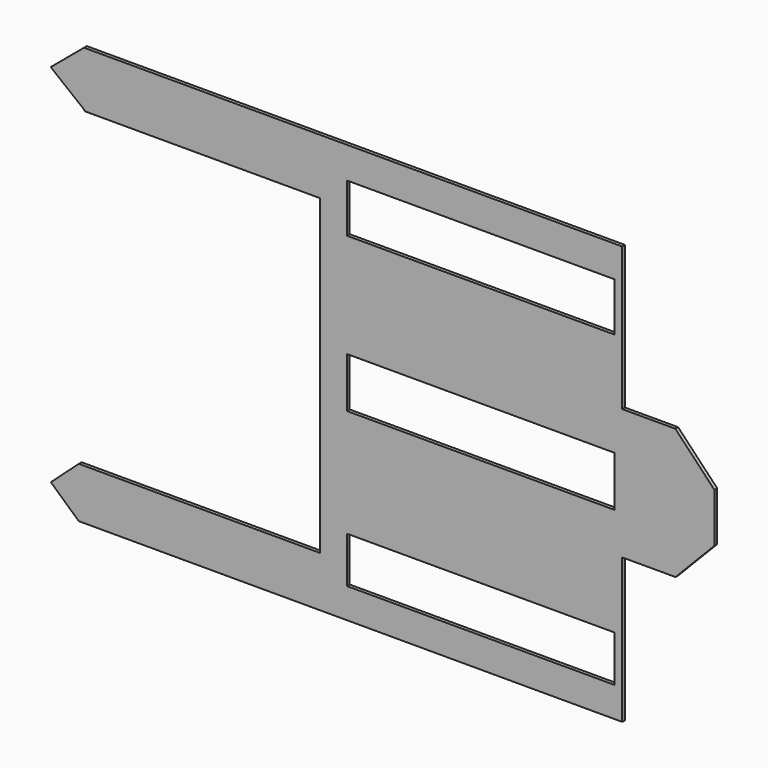
from build123d import *

# Parameters (mm, degrees)
F1_DEPTH  = 1
F2_W      = 77.1699883044
F2_H      = 14.0396282077
F2_H_2    = 14.4938565791
F2_H_3    = 13.3186802268
F3_DEPTH  = 25.4
F5_DEPTH  = 25.4
F7_DEPTH  = 25.4
F9_DEPTH  = 25.4
F12_DEPTH = 25.4
F14_DEPTH = 25.4


with BuildPart() as f1:
    # F0 (on Front) → F1 (new body)
    with BuildSketch(Plane.XZ):
        Polygon((95.7224294543, -60.3764280677), (95.7224294543, 60.3764280677), (-95.7224294543, 60.3764280677), (-95.7224294543, 44.296272099), (-18.052238971, 44.296272099), (-18.052238971, -45.8132624626), (-95.7224294543, -45.8132624626), (-95.7224294543, -60.3764280677), align=None)
    extrude(amount=F1_DEPTH)

    # F2 (on face) → F3 (cut)
    with BuildSketch(Plane.XZ.offset(1)):
        with Locations((28.3021917567, 44.296272099)):
            Rectangle(F2_W, F2_H)
        with Locations((28.3021917567, 0)):
            Rectangle(F2_W, F2_H_2)
        with Locations((28.3021917567, -45.0484715402)):
            Rectangle(F2_W, F2_H_3)
    extrude(amount=-F3_DEPTH, mode=Mode.SUBTRACT)

    # F4 (on face) → F5 (cut)
    with BuildSketch(Plane.XZ.offset(1)):
        Polygon((84.501597172, -18.5892991722), (69.1369175911, -18.5892991722), (69.1369175911, -60.3764280677), (95.7224294543, -60.3764280677), (95.7224294543, -7.0018698461), align=None)
        Polygon((69.1369175911, 60.3764280677), (69.1369175911, 19.0698392689), (84.4565480947, 19.0698392689), (95.7224294543, 7.2190617211), (95.7224294543, 60.3764280677), align=None)
    extrude(amount=-F5_DEPTH, mode=Mode.SUBTRACT)

    # F6 (on face) → F7 (cut)
    with BuildSketch(Plane.XZ.offset(1)):
        Polygon((-95.7224294543, 60.3764280677), (-95.7224294543, 52.3363500834), (-88.4090960026, 60.3764280677), align=None)
        Polygon((-88.4090960026, 44.296272099), (-95.7224294543, 52.3363500834), (-95.7224294543, 44.296272099), align=None)
    extrude(amount=-F7_DEPTH, mode=Mode.SUBTRACT)

    # F8 (on face) → F9 (cut)
    with BuildSketch(Plane.XZ.offset(1)):
        Polygon((-95.7224294543, -45.8132624626), (-95.7224294543, -53.0948452652), (-87.6560211182, -45.8132624626), align=None)
        Polygon((-87.6560211182, -60.3764280677), (-95.7224294543, -53.0948452652), (-95.7224294543, -60.3764280677), align=None)
    extrude(amount=-F9_DEPTH, mode=Mode.SUBTRACT)

    # F11 (on face) → F12 (cut)
    with BuildSketch(Plane.XZ.offset(1)):
        Polygon((-85.7021808624, 44.3187952042), (-95.5954936845, 52.1968003835), (-88.429583239, 44.3187952042), align=None)
        Polygon((-88.4090960026, 60.3764280677), (-94.2494603717, 53.9556918474), (-87.5151380897, 59.4371178139), (-88.2796930664, 60.3764280677), align=None)
    extrude(amount=-F12_DEPTH, mode=Mode.SUBTRACT)

    # F13 (on face) → F14 (cut)
    with BuildSketch(Plane.XZ.offset(1)):
        Polygon((-93.3957355305, 54.8942534959), (-95.6290065626, 52.4390566453), (-86.1386760037, 60.3764280677), (-88.4090960026, 60.3764280677), align=None)
        Polygon((-86.1098706364, 44.296272099), (-95.6111442944, 52.2140062342), (-88.4090960026, 44.296272099), align=None)
    extrude(amount=-F14_DEPTH, mode=Mode.SUBTRACT)


solid = f1.part
